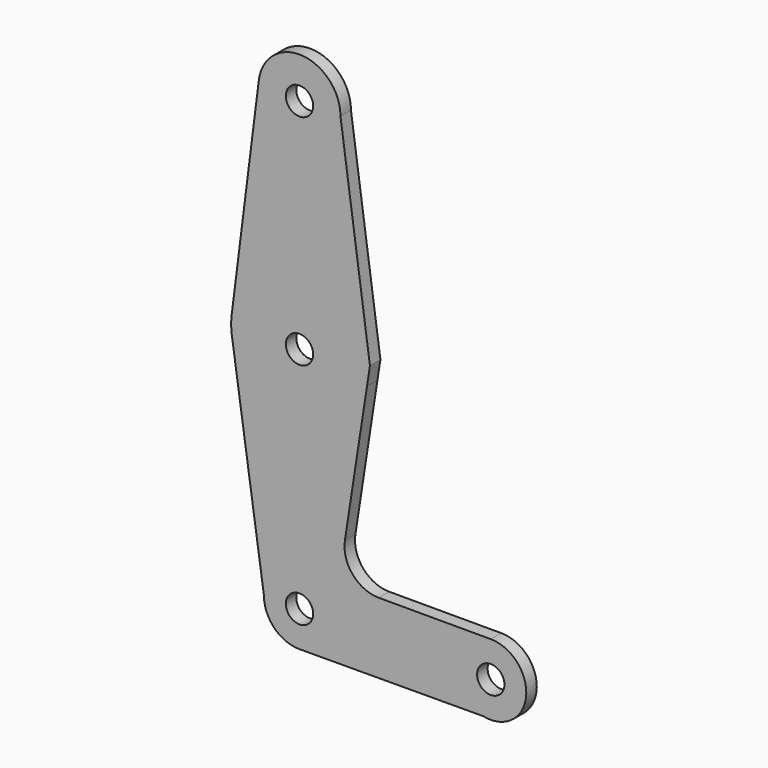
from build123d import *

# Parameters (mm, degrees)
F0_R     = 3.175
F1_DEPTH = 3.048


with BuildPart() as f1:
    # F0 (on Front) → F1 (new body)
    with BuildSketch(Plane.XZ):
        with BuildLine():
            Line((6.5460337262, -9.3546453118), (-0.2985215992, 39.4602739096))
            ThreePointArc((-0.2985215992, 39.4602739096), (-10.3166747036, 29.9480488799), (-19.2974559857, 40.4452572803))
            Line((-19.2974559857, 40.4452572803), (-25.573920937, -9.3546453118))
            ThreePointArc((-25.573920937, -9.3546453118), (-8.8290278809, 4.5040931223), (6.0514784008, -11.3397260904))
            ThreePointArc((6.0514784008, -11.3397260904), (6.0049402159, -12.554395415), (5.8655985182, -13.7619430381))
            Line((5.8655985182, -13.7619430381), (6.5460337262, -9.3546453118))
        make_face()
        with BuildLine():
            ThreePointArc((-18.0785215992, -64.429858196), (-15.6606880779, -70.2670246746), (-9.8235215992, -72.684858196))
            ThreePointArc((-9.8235215992, -72.684858196), (-3.9863551205, -70.2670246746), (-1.5685215992, -64.429858196))
            ThreePointArc((-1.5685215992, -64.429858196), (-9.8235215992, -56.174858196), (-18.0785215992, -64.429858196))
        make_face()
        with Locations((-9.8235215992, -64.429858196)):
            Circle(F0_R, mode=Mode.SUBTRACT)
        with BuildLine():
            ThreePointArc((6.0514784008, -11.3397260904), (-8.8290278809, 4.5040931223), (-25.573920937, -9.3546453118))
            ThreePointArc((-25.573920937, -9.3546453118), (-25.6985215992, -11.3397260904), (-25.573920937, -13.3248068691))
            Line((-25.573920937, -13.3248068691), (-25.4806023452, -13.9610706907))
            ThreePointArc((-25.4806023452, -13.9610706907), (-9.7226772347, -27.2144057853), (5.8655985182, -13.7619430381))
            ThreePointArc((5.8655985182, -13.7619430381), (6.0049402159, -12.554395415), (6.0514784008, -11.3397260904))
        make_face()
        with Locations((-9.8235215992, -11.3397260904)):
            Circle(F0_R, mode=Mode.SUBTRACT)
        with BuildLine():
            ThreePointArc((42.8814784008, -64.429858196), (40.4636448795, -58.5926917173), (34.6264784008, -56.174858196))
            ThreePointArc((34.6264784008, -56.174858196), (26.4163418634, -63.5703914795), (32.9168868583, -72.5058919847))
            Line((32.9168868583, -72.5058919847), (36.4036420965, -72.4912919517))
            ThreePointArc((36.4036420965, -72.4912919517), (41.0613642315, -69.6006675471), (42.8814784008, -64.429858196))
        make_face()
        with Locations((34.6264784008, -64.429858196)):
            Circle(F0_R, mode=Mode.SUBTRACT)
        with BuildLine():
            Line((0.7322386, -47.011612119), (5.8655985182, -13.7619430381))
            ThreePointArc((5.8655985182, -13.7619430381), (-9.7226772347, -27.2144057853), (-25.4806023452, -13.9610706907))
            Line((-25.4806023452, -13.9610706907), (-18.0785215992, -64.429858196))
            ThreePointArc((-18.0785215992, -64.429858196), (-9.8235215992, -56.174858196), (-1.5685215992, -64.429858196))
            ThreePointArc((-1.5685215992, -64.429858196), (-3.9863551205, -70.2670246746), (-9.8235215992, -72.684858196))
            Line((-9.8235215992, -72.684858196), (32.9168868583, -72.5058919847))
            ThreePointArc((32.9168868583, -72.5058919847), (26.4163418634, -63.5703914795), (34.6264784008, -56.174858196))
            Line((34.6264784008, -56.174858196), (8.5893499811, -56.174858196))
            ThreePointArc((8.5893499811, -56.174858196), (2.5540521856, -53.3996809553), (0.7322386, -47.011612119))
        make_face()
        with BuildLine():
            Line((36.4036420965, -72.4912919517), (32.9168868583, -72.5058919847))
            ThreePointArc((32.9168868583, -72.5058919847), (34.6610441239, -72.684785828), (36.4036420965, -72.4912919517))
        make_face()
        with BuildLine():
            Line((-25.4806023452, -13.9610706907), (-25.573920937, -13.3248068691))
            ThreePointArc((-25.573920937, -13.3248068691), (-25.5304837248, -13.6434113517), (-25.4806023452, -13.9610706907))
        make_face()
        with BuildLine():
            ThreePointArc((-19.2974559857, 40.4452572803), (-10.3166747036, 29.9480488799), (-0.2985215992, 39.4602739096))
            ThreePointArc((-0.2985215992, 39.4602739096), (-9.3303684948, 48.9724989393), (-19.2974559857, 40.4452572803))
        make_face()
        with Locations((-9.8235215992, 39.4602739096)):
            Circle(F0_R, mode=Mode.SUBTRACT)
    extrude(amount=F1_DEPTH)


solid = f1.part
